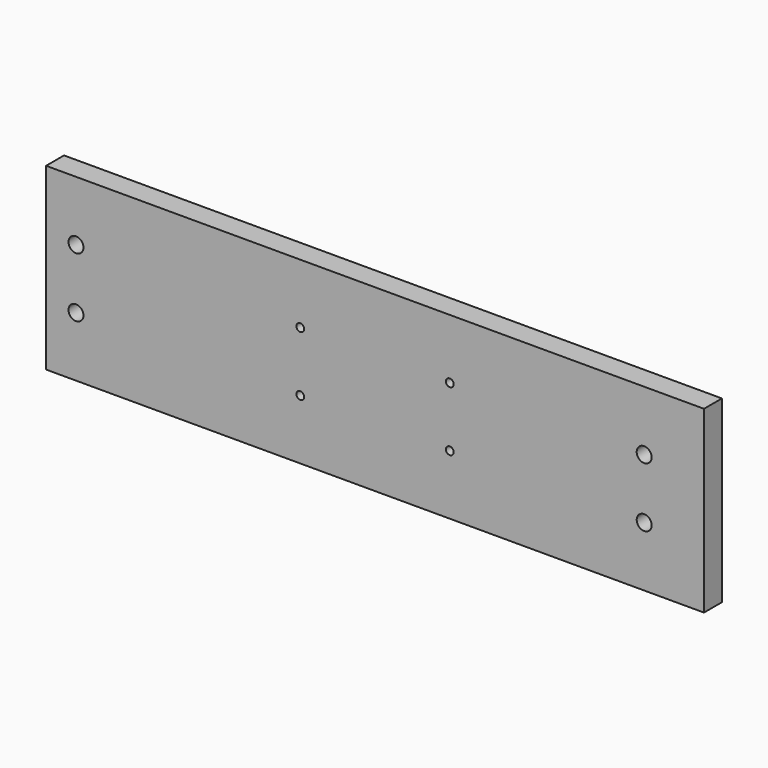
from build123d import *

# Parameters (mm, degrees)
F0_W     = 279.4
F0_H     = 76.2
F0_R     = 3.175
F0_R_2   = 1.651
F1_DEPTH = 4.7625


with BuildPart() as f1:
    # F0 (on Front) → F1 (new body, symmetric)
    with BuildSketch(Plane.XZ):
        with Locations((-12.7, 0)):
            Rectangle(F0_W, F0_H)
        with Locations((-139.7, -12.7)):
            Circle(F0_R, mode=Mode.SUBTRACT)
        with Locations((-44.45, -12.7)):
            Circle(F0_R_2, mode=Mode.SUBTRACT)
        with Locations((19.05, -12.7)):
            Circle(F0_R_2, mode=Mode.SUBTRACT)
        with Locations((101.6, -12.7)):
            Circle(F0_R, mode=Mode.SUBTRACT)
        with Locations((-139.7, 12.7)):
            Circle(F0_R, mode=Mode.SUBTRACT)
        with Locations((-44.45, 12.7)):
            Circle(F0_R_2, mode=Mode.SUBTRACT)
        with Locations((19.05, 12.7)):
            Circle(F0_R_2, mode=Mode.SUBTRACT)
        with Locations((101.6, 12.7)):
            Circle(F0_R, mode=Mode.SUBTRACT)
    extrude(amount=F1_DEPTH, both=True)


solid = f1.part
